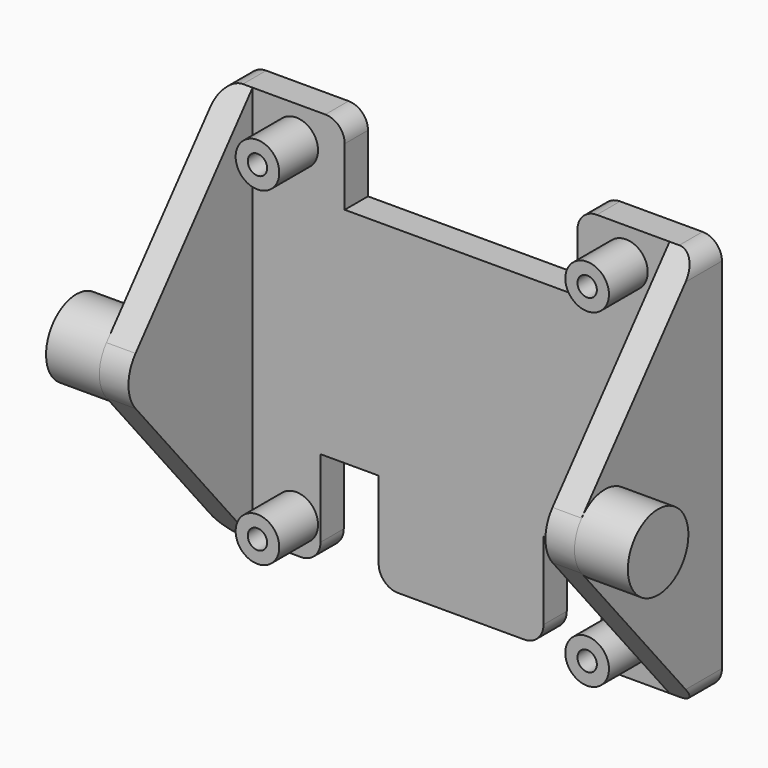
from build123d import *

# Parameters (mm, degrees)
SKETCH_W        = 24.5
SKETCH_H        = 41
PAD_DEPTH       = 3
SKETCH001_R     = 2.25
PAD001_DEPTH    = 5
PAD002_DEPTH    = 3
SKETCH003_R     = 3.9
PAD003_DEPTH    = 5.5
SKETCH004_W     = 12
SKETCH004_H     = 8
POCKET_DEPTH    = 3.001
SKETCH005_W     = 6
SKETCH005_H     = 10
POCKET001_DEPTH = 3.001
SKETCH006_R     = 1
POCKET002_DEPTH = 8.001
FILLET_R        = 2


with BuildPart() as part:
    # Sketch → Pad (new body)
    with BuildSketch(Plane.XZ):
        with Locations((12.25, 0)):
            Rectangle(SKETCH_W, SKETCH_H)
    extrude(amount=-PAD_DEPTH)

    # Sketch001 → Pad001 (join)
    with BuildSketch(Plane.XZ):
        with Locations((17, 17)):
            Circle(SKETCH001_R)
        with Locations((17, -17)):
            Circle(SKETCH001_R)
    extrude(amount=PAD001_DEPTH)

    # Sketch002 (on Face6 of Pad001) → Pad002 (join)
    with BuildSketch(Plane(origin=(24.5, 0, 0), x_dir=(0, 0, 1), z_dir=(1, 0, 0))):
        with BuildLine():
            Line((20.5, 0), (-20.5, 0))
            Line((-20.5, 0), (-2.505853, 15.088428))
            ThreePointArc((2.505853, 15.088428), (0, 16), (-2.505853, 15.088428))
            Line((2.505853, 15.088428), (20.5, 0))
        make_face()
    extrude(amount=-PAD002_DEPTH)

    # Sketch003 (on Face14 of Pad002) → Pad003 (join)
    with BuildSketch(Plane(origin=(24.5, 0, 0), x_dir=(0, 0, 1), z_dir=(1, 0, 0))):
        with Locations((0, 12.1)):
            Circle(SKETCH003_R)
    extrude(amount=PAD003_DEPTH)

    # Sketch004 → Pocket (cut, through all)
    with BuildSketch(Plane.XZ):
        with Locations((6, 16.5)):
            Rectangle(SKETCH004_W, SKETCH004_H)
    extrude(amount=-POCKET_DEPTH, mode=Mode.SUBTRACT)

    # Sketch005 (on Face4 of Pocket) → Pocket001 (cut, through all)
    with BuildSketch(Plane.XZ):
        with Locations((11.5, -15.5)):
            Rectangle(SKETCH005_W, SKETCH005_H)
    extrude(amount=-POCKET001_DEPTH, mode=Mode.SUBTRACT)

    # Sketch006 (on Face20 of Pocket001) → Pocket002 (cut, through all)
    with BuildSketch(Plane.XZ.offset(5)):
        with Locations((17, 17)):
            Circle(SKETCH006_R)
        with Locations((17, -17)):
            Circle(SKETCH006_R)
    extrude(amount=-POCKET002_DEPTH, mode=Mode.SUBTRACT)

    # Fillet
    fillet_edges = [part.edges().sort_by_distance(p)[0] for p in [
        (8.5, 1.5, -20.5),
        (12, 1.5, 20.5),
        (24.5, 1.5, 20.5),
        (24.5, 1.5, -20.5),
        (14.5, 1.5, -20.5),
    ]]
    fillet(fillet_edges, radius=FILLET_R)

    # Mirrored: part across YZ


with BuildPart() as part_1:
    add(part.part)
    add(part.part.mirror(Plane.YZ))


solid = part_1.part
